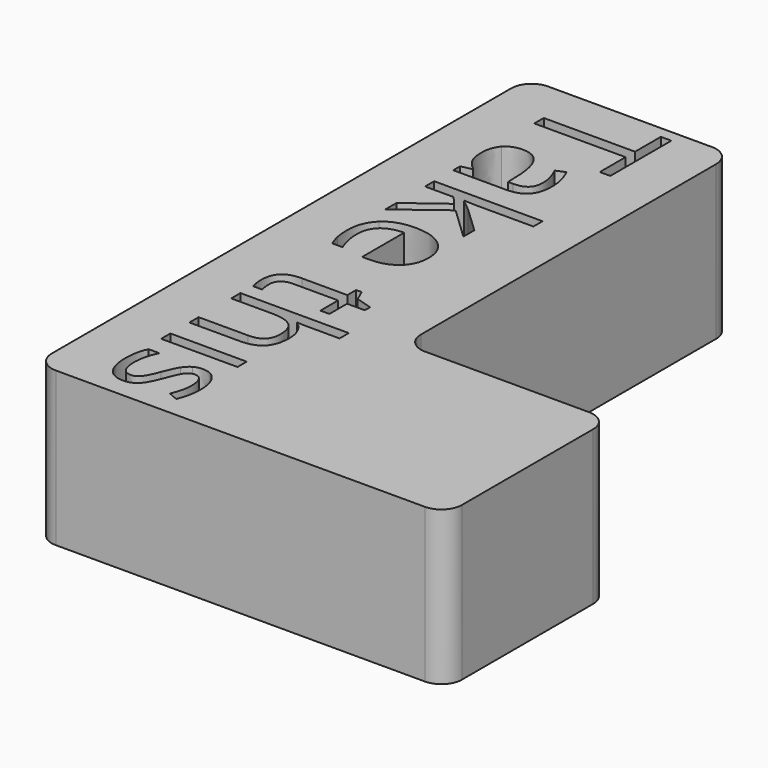
from build123d import *

# Parameters (mm, degrees)
F0_W     = 7.4420259993
F0_H     = 1.127711385
F1_DEPTH = 15
F2_R     = 2


with BuildPart() as f1:
    # F0 (on Top) → F1 (new body)
    with BuildSketch(Plane.XY):
        Polygon((-40.3479444981, 82.7578055486), (-60.3479444981, 82.7578055486), (-60.3479444981, 22.7578055486), (-20.3479444981, 22.7578055486), (-20.3479444981, 42.7578055486), (-40.3479444981, 42.7578055486), align=None)
        with BuildLine():
            add(Edge.make_bspline(
                [(-52.0949193604, 25.1245309073), (-52.5838115793, 24.6595400858), (-53.3247548978, 24.6595400858)],
                knots=[0, 0, 0, 1, 1, 1], degree=2))
            add(Edge.make_bspline(
                [(-53.3247548978, 24.6595400858), (-54.3633792562, 24.6595400858), (-54.9272349487, 25.4330762188)],
                knots=[0, 0, 0, 1, 1, 1], degree=2))
            add(Edge.make_bspline(
                [(-54.9272349487, 25.4330762188), (-55.4910906412, 26.2066123519), (-55.4910906412, 27.6059305252)],
                knots=[0, 0, 0, 1, 1, 1], degree=2))
            add(Edge.make_bspline(
                [(-55.4910906412, 27.6059305252), (-55.4910906412, 29.0856443078), (-55.0217541111, 29.9135017986)],
                knots=[0, 0, 0, 1, 1, 1], degree=2))
            Line((-55.0217541111, 29.9135017986), (-53.9766111897, 29.9135017986))
            add(Edge.make_bspline(
                [(-53.9766111897, 29.9135017986), (-54.248217978, 29.3768067849), (-54.4035770609, 28.7629754433)],
                knots=[0, 0, 0, 1, 1, 1], degree=2))
            add(Edge.make_bspline(
                [(-54.4035770609, 28.7629754433), (-54.5589361438, 28.1491441018), (-54.5589361438, 27.5776834192)],
                knots=[0, 0, 0, 1, 1, 1], degree=2))
            add(Edge.make_bspline(
                [(-54.5589361438, 27.5776834192), (-54.5589361438, 26.6955045708), (-54.2775515111, 26.2207359049)],
                knots=[0, 0, 0, 1, 1, 1], degree=2))
            add(Edge.make_bspline(
                [(-54.2775515111, 26.2207359049), (-53.9961668785, 25.7459672389), (-53.418187633, 25.7459672389)],
                knots=[0, 0, 0, 1, 1, 1], degree=2))
            add(Edge.make_bspline(
                [(-53.418187633, 25.7459672389), (-52.9836167717, 25.7459672389), (-52.6750714602, 26.1218710339)],
                knots=[0, 0, 0, 1, 1, 1], degree=2))
            add(Edge.make_bspline(
                [(-52.6750714602, 26.1218710339), (-52.3665261487, 26.4977748289), (-51.9449924132, 27.5928933994)],
                knots=[0, 0, 0, 1, 1, 1], degree=2))
            add(Edge.make_bspline(
                [(-51.9449924132, 27.5928933994), (-51.5582243467, 28.6315177578), (-51.269234724, 29.0693479005)],
                knots=[0, 0, 0, 1, 1, 1], degree=2))
            add(Edge.make_bspline(
                [(-51.269234724, 29.0693479005), (-50.9802451012, 29.5071780433), (-50.6141191506, 29.7212041924)],
                knots=[0, 0, 0, 1, 1, 1], degree=2))
            add(Edge.make_bspline(
                [(-50.6141191506, 29.7212041924), (-50.2479932, 29.9352303416), (-49.7395452923, 29.9352303416)],
                knots=[0, 0, 0, 1, 1, 1], degree=2))
            add(Edge.make_bspline(
                [(-49.7395452923, 29.9352303416), (-48.8291193379, 29.9352303416), (-48.3022021686, 29.1942870232)],
                knots=[0, 0, 0, 1, 1, 1], degree=2))
            add(Edge.make_bspline(
                [(-48.3022021686, 29.1942870232), (-47.7752849993, 28.4533437047), (-47.7752849993, 27.164841101)],
                knots=[0, 0, 0, 1, 1, 1], degree=2))
            add(Edge.make_bspline(
                [(-47.7752849993, 27.164841101), (-47.7752849993, 25.9632526696), (-48.2641772183, 24.8138127415)],
                knots=[0, 0, 0, 1, 1, 1], degree=2))
            Line((-48.2641772183, 24.8138127415), (-49.1811217355, 25.2157907882))
            add(Edge.make_bspline(
                [(-49.1811217355, 25.2157907882), (-48.7204766226, 26.334810756), (-48.7204766226, 27.2452367103)],
                knots=[0, 0, 0, 1, 1, 1], degree=2))
            add(Edge.make_bspline(
                [(-48.7204766226, 27.2452367103), (-48.7204766226, 28.0470199494), (-48.971441295, 28.4544301318)],
                knots=[0, 0, 0, 1, 1, 1], degree=2))
            add(Edge.make_bspline(
                [(-48.971441295, 28.4544301318), (-49.2224059674, 28.8618403143), (-49.6634953916, 28.8618403143)],
                knots=[0, 0, 0, 1, 1, 1], degree=2))
            add(Edge.make_bspline(
                [(-49.6634953916, 28.8618403143), (-49.9633492858, 28.8618403143), (-50.1730297264, 28.7086540857)],
                knots=[0, 0, 0, 1, 1, 1], degree=2))
            add(Edge.make_bspline(
                [(-50.1730297264, 28.7086540857), (-50.382710167, 28.5554678571), (-50.5728349188, 28.2165025853)],
                knots=[0, 0, 0, 1, 1, 1], degree=2))
            add(Edge.make_bspline(
                [(-50.5728349188, 28.2165025853), (-50.7629596706, 27.8775373135), (-51.1236534854, 26.9127900015)],
                knots=[0, 0, 0, 1, 1, 1], degree=2))
            add(Edge.make_bspline(
                [(-51.1236534854, 26.9127900015), (-51.6060271415, 25.5895217289), (-52.0949193604, 25.1245309073)],
                knots=[0, 0, 0, 1, 1, 1], degree=2))
        make_face(mode=Mode.SUBTRACT)
        with Locations((-51.6331878203, 32.413370678)):
            Rectangle(F0_W, F0_H, mode=Mode.SUBTRACT)
        with BuildLine():
            add(Edge.make_bspline(
                [(-46.4628809983, 32.8827072082), (-46.2760155279, 33.07283196), (-45.8957660243, 33.07283196)],
                knots=[0, 0, 0, 1, 1, 1], degree=2))
            add(Edge.make_bspline(
                [(-45.8957660243, 33.07283196), (-45.5089979578, 33.07283196), (-45.3286510503, 32.8827072082)],
                knots=[0, 0, 0, 1, 1, 1], degree=2))
            add(Edge.make_bspline(
                [(-45.3286510503, 32.8827072082), (-45.1483041429, 32.6925824564), (-45.1483041429, 32.405765688)],
                knots=[0, 0, 0, 1, 1, 1], degree=2))
            add(Edge.make_bspline(
                [(-45.1483041429, 32.405765688), (-45.1483041429, 32.1341588997), (-45.3319103318, 31.9375155849)],
                knots=[0, 0, 0, 1, 1, 1], degree=2))
            add(Edge.make_bspline(
                [(-45.3319103318, 31.9375155849), (-45.5155165207, 31.7408722702), (-45.8957660243, 31.7408722702)],
                knots=[0, 0, 0, 1, 1, 1], degree=2))
            add(Edge.make_bspline(
                [(-45.8957660243, 31.7408722702), (-46.2760155279, 31.7408722702), (-46.4628809983, 31.9375155849)],
                knots=[0, 0, 0, 1, 1, 1], degree=2))
            add(Edge.make_bspline(
                [(-46.4628809983, 31.9375155849), (-46.6497464686, 32.1341588997), (-46.6497464686, 32.405765688)],
                knots=[0, 0, 0, 1, 1, 1], degree=2))
            add(Edge.make_bspline(
                [(-46.6497464686, 32.405765688), (-46.6497464686, 32.6925824564), (-46.4628809983, 32.8827072082)],
                knots=[0, 0, 0, 1, 1, 1], degree=2))
        make_face(mode=Mode.SUBTRACT)
        with BuildLine():
            add(Edge.make_bspline(
                [(-54.1993287561, 44.8931593867), (-54.5589361438, 44.5737498037), (-54.5589361438, 44.0174991012)],
                knots=[0, 0, 0, 1, 1, 1], degree=2))
            add(Edge.make_bspline(
                [(-54.5589361438, 44.0174991012), (-54.5589361438, 43.7176452069), (-54.5154790577, 43.4395198557)],
                knots=[0, 0, 0, 1, 1, 1], degree=2))
            add(Edge.make_bspline(
                [(-54.5154790577, 43.4395198557), (-54.4720219716, 43.1613945045), (-54.4242191768, 42.9984304315)],
                knots=[0, 0, 0, 1, 1, 1], degree=2))
            Line((-54.4242191768, 42.9984304315), (-55.2868423364, 42.9984304315))
            add(Edge.make_bspline(
                [(-55.2868423364, 42.9984304315), (-55.3737565087, 43.1809501933), (-55.432423575, 43.5372982995)],
                knots=[0, 0, 0, 1, 1, 1], degree=2))
            add(Edge.make_bspline(
                [(-55.432423575, 43.5372982995), (-55.4910906412, 43.8936464058), (-55.4910906412, 44.1804631742)],
                knots=[0, 0, 0, 1, 1, 1], degree=2))
            add(Edge.make_bspline(
                [(-55.4910906412, 44.1804631742), (-55.4910906412, 46.3381075004), (-53.2161121825, 46.3381075004)],
                knots=[0, 0, 0, 1, 1, 1], degree=2))
            Line((-53.2161121825, 46.3381075004), (-48.7878351061, 46.3381075004))
            Line((-48.7878351061, 46.3381075004), (-48.7878351061, 47.4049789649))
            Line((-48.7878351061, 47.4049789649), (-48.2446215295, 47.4049789649))
            Line((-48.2446215295, 47.4049789649), (-47.7752849993, 46.3381075004))
            Line((-47.7752849993, 46.3381075004), (-46.1869285014, 45.8644252616))
            Line((-46.1869285014, 45.8644252616), (-46.1869285014, 45.2125689697))
            Line((-46.1869285014, 45.2125689697), (-47.9121748206, 45.2125689697))
            Line((-47.9121748206, 45.2125689697), (-47.9121748206, 43.0527517892))
            Line((-47.9121748206, 43.0527517892), (-48.7878351061, 43.0527517892))
            Line((-48.7878351061, 43.0527517892), (-48.7878351061, 45.2125689697))
            Line((-48.7878351061, 45.2125689697), (-53.1683093877, 45.2125689697))
            add(Edge.make_bspline(
                [(-53.1683093877, 45.2125689697), (-53.8397213684, 45.2125689697), (-54.1993287561, 44.8931593867)],
                knots=[0, 0, 0, 1, 1, 1], degree=2))
        make_face(mode=Mode.SUBTRACT)
        with BuildLine():
            Line((-55.3542008199, 35.2913162068), (-55.3542008199, 36.4190275918))
            Line((-55.3542008199, 36.4190275918), (-50.539155677, 36.4190275918))
            add(Edge.make_bspline(
                [(-50.539155677, 36.4190275918), (-49.630902577, 36.4190275918), (-49.1822081627, 36.8329563372)],
                knots=[0, 0, 0, 1, 1, 1], degree=2))
            add(Edge.make_bspline(
                [(-49.1822081627, 36.8329563372), (-48.7335137484, 37.2468850826), (-48.7335137484, 38.1312367853)],
                knots=[0, 0, 0, 1, 1, 1], degree=2))
            add(Edge.make_bspline(
                [(-48.7335137484, 38.1312367853), (-48.7335137484, 39.3045781107), (-49.3723329145, 39.8445324058)],
                knots=[0, 0, 0, 1, 1, 1], degree=2))
            add(Edge.make_bspline(
                [(-49.3723329145, 39.8445324058), (-50.0111520806, 40.384486701), (-51.4626187572, 40.384486701)],
                knots=[0, 0, 0, 1, 1, 1], degree=2))
            Line((-51.4626187572, 40.384486701), (-55.3542008199, 40.384486701))
            Line((-55.3542008199, 40.384486701), (-55.3542008199, 41.512198086))
            Line((-55.3542008199, 41.512198086), (-44.7876103281, 41.512198086))
            Line((-44.7876103281, 41.512198086), (-44.7876103281, 40.384486701))
            Line((-44.7876103281, 40.384486701), (-47.986051867, 40.384486701))
            add(Edge.make_bspline(
                [(-47.986051867, 40.384486701), (-48.5640311125, 40.384486701), (-48.9442806161, 40.4388080586)],
                knots=[0, 0, 0, 1, 1, 1], degree=2))
            Line((-48.9442806161, 40.4388080586), (-48.9442806161, 40.3714495751))
            add(Edge.make_bspline(
                [(-48.9442806161, 40.3714495751), (-48.4075856025, 40.0390028663), (-48.099040291, 39.4240850976)],
                knots=[0, 0, 0, 1, 1, 1], degree=2))
            add(Edge.make_bspline(
                [(-48.099040291, 39.4240850976), (-47.7904949795, 38.8091673289), (-47.7904949795, 38.0225940699)],
                knots=[0, 0, 0, 1, 1, 1], degree=2))
            add(Edge.make_bspline(
                [(-47.7904949795, 38.0225940699), (-47.7904949795, 36.6580415655), (-48.4390919899, 35.9746788862)],
                knots=[0, 0, 0, 1, 1, 1], degree=2))
            add(Edge.make_bspline(
                [(-48.4390919899, 35.9746788862), (-49.0876890004, 35.2913162068), (-50.5000442995, 35.2913162068)],
                knots=[0, 0, 0, 1, 1, 1], degree=2))
            Line((-50.5000442995, 35.2913162068), (-55.3542008199, 35.2913162068))
        make_face(mode=Mode.SUBTRACT)
        with BuildLine():
            add(Edge.make_bspline(
                [(-55.3781022173, 53.4064025591), (-55.4910906412, 53.9387518641), (-55.4910906412, 54.6927323084)],
                knots=[0, 0, 0, 1, 1, 1], degree=2))
            add(Edge.make_bspline(
                [(-55.4910906412, 54.6927323084), (-55.4910906412, 56.341928727), (-54.4850590974, 57.2968981946)],
                knots=[0, 0, 0, 1, 1, 1], degree=2))
            add(Edge.make_bspline(
                [(-54.4850590974, 57.2968981946), (-53.4790275535, 58.2518676623), (-51.695114168, 58.2518676623)],
                knots=[0, 0, 0, 1, 1, 1], degree=2))
            add(Edge.make_bspline(
                [(-51.695114168, 58.2518676623), (-49.893817948, 58.2518676623), (-48.8345514737, 57.3653431053)],
                knots=[0, 0, 0, 1, 1, 1], degree=2))
            add(Edge.make_bspline(
                [(-48.8345514737, 57.3653431053), (-47.7752849993, 56.4788185483), (-47.7752849993, 54.9838947855)],
                knots=[0, 0, 0, 1, 1, 1], degree=2))
            add(Edge.make_bspline(
                [(-47.7752849993, 54.9838947855), (-47.7752849993, 53.5867494665), (-48.6954887981, 52.7719291016)],
                knots=[0, 0, 0, 1, 1, 1], degree=2))
            add(Edge.make_bspline(
                [(-48.6954887981, 52.7719291016), (-49.6156925968, 51.9571087367), (-51.1236534854, 51.9571087367)],
                knots=[0, 0, 0, 1, 1, 1], degree=2))
            Line((-51.1236534854, 51.9571087367), (-51.8363496979, 51.9571087367))
            Line((-51.8363496979, 51.9571087367), (-51.8363496979, 57.0828720454))
            add(Edge.make_bspline(
                [(-51.8363496979, 57.0828720454), (-53.1465808447, 57.0481063765), (-53.8255978154, 56.420151482)],
                knots=[0, 0, 0, 1, 1, 1], degree=2))
            add(Edge.make_bspline(
                [(-53.8255978154, 56.420151482), (-54.5046147862, 55.7921965875), (-54.5046147862, 54.6514480766)],
                knots=[0, 0, 0, 1, 1, 1], degree=2))
            add(Edge.make_bspline(
                [(-54.5046147862, 54.6514480766), (-54.5046147862, 53.4498596452), (-54.0026854414, 52.2765183197)],
                knots=[0, 0, 0, 1, 1, 1], degree=2))
            Line((-54.0026854414, 52.2765183197), (-55.0087169852, 52.2765183197))
            add(Edge.make_bspline(
                [(-55.0087169852, 52.2765183197), (-55.2651137934, 52.874053254), (-55.3781022173, 53.4064025591)],
                knots=[0, 0, 0, 1, 1, 1], degree=2))
        make_face(mode=Mode.SUBTRACT)
        with BuildLine():
            Line((-51.5451872209, 64.0751172033), (-51.5451872209, 64.0207958457))
            add(Edge.make_bspline(
                [(-51.5451872209, 64.0207958457), (-51.1301720484, 63.7296333686), (-50.4587600677, 63.1320984344)],
                knots=[0, 0, 0, 1, 1, 1], degree=2))
            Line((-50.4587600677, 63.1320984344), (-47.9121748206, 60.7289215715))
            Line((-47.9121748206, 60.7289215715), (-47.9121748206, 59.3904433188))
            Line((-47.9121748206, 59.3904433188), (-51.0823692536, 62.4063650961))
            Line((-51.0823692536, 62.4063650961), (-55.3542008199, 59.1796764511))
            Line((-55.3542008199, 59.1796764511), (-55.3542008199, 60.5442289555))
            Line((-55.3542008199, 60.5442289555), (-51.8363496979, 63.1733826662))
            Line((-51.8363496979, 63.1733826662), (-52.5707744535, 64.0207958457))
            Line((-52.5707744535, 64.0207958457), (-55.3542008199, 64.0207958457))
            Line((-55.3542008199, 64.0207958457), (-55.3542008199, 65.1354701049))
            Line((-55.3542008199, 65.1354701049), (-44.7876103281, 65.1354701049))
            Line((-44.7876103281, 65.1354701049), (-44.7876103281, 64.0207958457))
            Line((-44.7876103281, 64.0207958457), (-50.3914015842, 64.0207958457))
            add(Edge.make_bspline(
                [(-50.3914015842, 64.0207958457), (-50.7629596706, 64.0207958457), (-51.5451872209, 64.0751172033)],
                knots=[0, 0, 0, 1, 1, 1], degree=2))
        make_face(mode=Mode.SUBTRACT)
        with BuildLine():
            Line((-55.3542008199, 67.4560785041), (-55.3542008199, 68.292627412))
            Line((-55.3542008199, 68.292627412), (-54.2938479184, 68.5164314056))
            Line((-54.2938479184, 68.5164314056), (-54.2938479184, 68.5707527632))
            add(Edge.make_bspline(
                [(-54.2938479184, 68.5707527632), (-54.9935070051, 69.1270034657), (-55.2422988232, 69.6799948866)],
                knots=[0, 0, 0, 1, 1, 1], degree=2))
            add(Edge.make_bspline(
                [(-55.2422988232, 69.6799948866), (-55.4910906412, 70.2329863076), (-55.4910906412, 71.0630166526)],
                knots=[0, 0, 0, 1, 1, 1], degree=2))
            add(Edge.make_bspline(
                [(-55.4910906412, 71.0630166526), (-55.4910906412, 72.1689994946), (-54.9196299587, 72.7969543891)],
                knots=[0, 0, 0, 1, 1, 1], degree=2))
            add(Edge.make_bspline(
                [(-54.9196299587, 72.7969543891), (-54.3481692761, 73.4249092837), (-53.2965077918, 73.4249092837)],
                knots=[0, 0, 0, 1, 1, 1], degree=2))
            add(Edge.make_bspline(
                [(-53.2965077918, 73.4249092837), (-51.0432578761, 73.4249092837), (-50.9346151608, 69.8201439894)],
                knots=[0, 0, 0, 1, 1, 1], degree=2))
            Line((-50.9346151608, 69.8201439894), (-50.893330929, 68.5577156374))
            Line((-50.893330929, 68.5577156374), (-50.4305129617, 68.5577156374))
            add(Edge.make_bspline(
                [(-50.4305129617, 68.5577156374), (-49.5548526762, 68.5577156374), (-49.1376646494, 68.9336194324)],
                knots=[0, 0, 0, 1, 1, 1], degree=2))
            add(Edge.make_bspline(
                [(-49.1376646494, 68.9336194324), (-48.7204766226, 69.3095232274), (-48.7204766226, 70.1395535724)],
                knots=[0, 0, 0, 1, 1, 1], degree=2))
            add(Edge.make_bspline(
                [(-48.7204766226, 70.1395535724), (-48.7204766226, 71.0695352156), (-49.2897644509, 72.242876541)],
                knots=[0, 0, 0, 1, 1, 1], degree=2))
            Line((-49.2897644509, 72.242876541), (-48.4271412912, 72.59053323))
            add(Edge.make_bspline(
                [(-48.4271412912, 72.59053323), (-48.1294602513, 72.0408010905), (-47.9599776154, 71.3856855171)],
                knots=[0, 0, 0, 1, 1, 1], degree=2))
            add(Edge.make_bspline(
                [(-47.9599776154, 71.3856855171), (-47.7904949795, 70.7305699438), (-47.7904949795, 70.0700222346)],
                knots=[0, 0, 0, 1, 1, 1], degree=2))
            add(Edge.make_bspline(
                [(-47.7904949795, 70.0700222346), (-47.7904949795, 68.7402353991), (-48.3804249236, 68.0981569516)],
                knots=[0, 0, 0, 1, 1, 1], degree=2))
            add(Edge.make_bspline(
                [(-48.3804249236, 68.0981569516), (-48.9703548678, 67.4560785041), (-50.2740674516, 67.4560785041)],
                knots=[0, 0, 0, 1, 1, 1], degree=2))
            Line((-50.2740674516, 67.4560785041), (-55.3542008199, 67.4560785041))
        make_face(mode=Mode.SUBTRACT)
        Polygon((-46.4520167267, 77.3382198894), (-55.3542008199, 77.3382198894), (-55.3542008199, 78.4920055261), (-46.4520167267, 78.4920055261), (-46.4520167267, 81.6361257075), (-45.4264294941, 81.6361257075), (-45.4264294941, 74.1940997081), (-46.4520167267, 74.1940997081), align=None, mode=Mode.SUBTRACT)
        with BuildLine():
            add(Edge.make_bspline(
                [(-45.8957660243, 33.07283196), (-45.5089979578, 33.07283196), (-45.3286510503, 32.8827072082)],
                knots=[0, 0, 0, 1, 1, 1], degree=2))
            add(Edge.make_bspline(
                [(-46.4628809983, 32.8827072082), (-46.2760155279, 33.07283196), (-45.8957660243, 33.07283196)],
                knots=[0, 0, 0, 1, 1, 1], degree=2))
            add(Edge.make_bspline(
                [(-46.6497464686, 32.405765688), (-46.6497464686, 32.6925824564), (-46.4628809983, 32.8827072082)],
                knots=[0, 0, 0, 1, 1, 1], degree=2))
            add(Edge.make_bspline(
                [(-46.4628809983, 31.9375155849), (-46.6497464686, 32.1341588997), (-46.6497464686, 32.405765688)],
                knots=[0, 0, 0, 1, 1, 1], degree=2))
            add(Edge.make_bspline(
                [(-45.8957660243, 31.7408722702), (-46.2760155279, 31.7408722702), (-46.4628809983, 31.9375155849)],
                knots=[0, 0, 0, 1, 1, 1], degree=2))
            add(Edge.make_bspline(
                [(-45.3319103318, 31.9375155849), (-45.5155165207, 31.7408722702), (-45.8957660243, 31.7408722702)],
                knots=[0, 0, 0, 1, 1, 1], degree=2))
            add(Edge.make_bspline(
                [(-45.1483041429, 32.405765688), (-45.1483041429, 32.1341588997), (-45.3319103318, 31.9375155849)],
                knots=[0, 0, 0, 1, 1, 1], degree=2))
            add(Edge.make_bspline(
                [(-45.3286510503, 32.8827072082), (-45.1483041429, 32.6925824564), (-45.1483041429, 32.405765688)],
                knots=[0, 0, 0, 1, 1, 1], degree=2))
        make_face()
    extrude(amount=F1_DEPTH)

    # F2
    f2_edges = [f1.edges().sort_by_distance(p)[0] for p in [
        (-20.347944, 42.757806, 7.5),
        (-20.347944, 22.757806, 7.5),
        (-40.347944, 42.757806, 7.5),
        (-40.347944, 82.757806, 7.5),
        (-60.347944, 82.757806, 7.5),
        (-60.347944, 22.757806, 7.5),
    ]]
    fillet(f2_edges, radius=F2_R)


solid = f1.part
